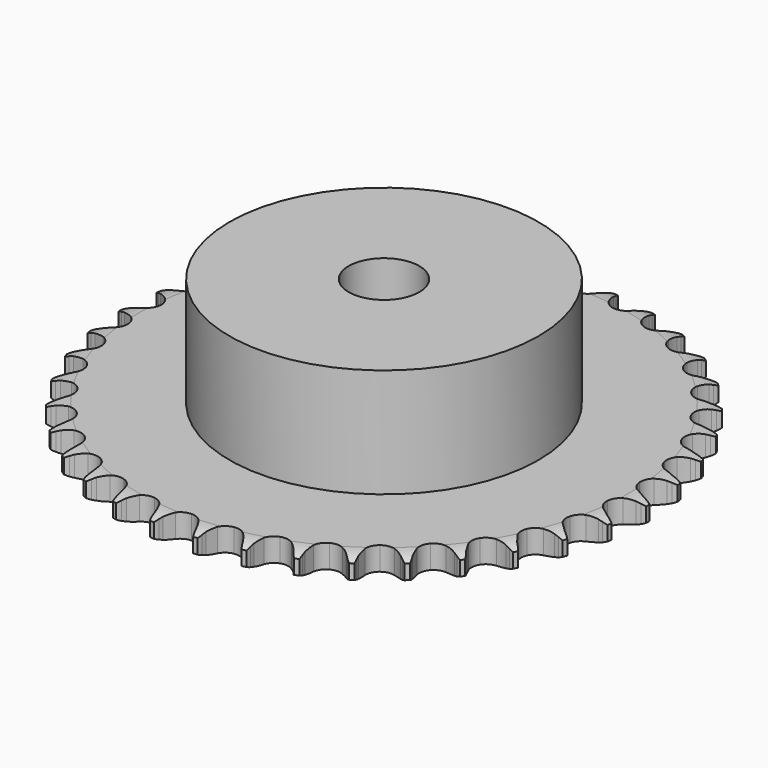
from build123d import *

# Parameters (mm, degrees)
PAD_DEPTH         = 5.3
SKETCH001_R       = 35
PAD001_DEPTH      = 30
SKETCH002_R       = 8
POCKET_DEPTH      = 0.001
POCKET_DEPTH_BACK = 30.001


with BuildPart() as part:
    # Sprocket → Pad (new body)
    with BuildSketch(Plane.XY):
        with BuildLine():
            ThreePointArc((-4.99856, 60.323644), (-4.441675, 59.555748), (-4.035521, 58.69853))
            Line((-4.035521, 58.69853), (-3.725843, 57.850122))
            ThreePointArc((-3.725843, 57.850122), (-3.235353, 56.757927), (-2.592985, 55.747564))
            ThreePointArc((-2.592985, 55.747564), (-1.45137, 54.787399), (0, 54.442831))
            ThreePointArc((0, 54.442831), (1.45137, 54.787399), (2.592985, 55.747564))
            ThreePointArc((2.592985, 55.747564), (3.235353, 56.757927), (3.725843, 57.850122))
            Line((3.725843, 57.850122), (4.035521, 58.69853))
            ThreePointArc((4.035521, 58.69853), (4.441675, 59.555748), (4.99856, 60.323644))
            ThreePointArc((4.99856, 60.323644), (5.421458, 59.474561), (5.680978, 58.562184))
            Line((5.680978, 58.562184), (5.846789, 57.674375))
            ThreePointArc((5.846789, 57.674375), (6.150821, 56.516344), (6.618128, 55.414031))
            ThreePointArc((6.618128, 55.414031), (7.586134, 54.279058), (8.960995, 53.700302))
            ThreePointArc((8.960995, 53.700302), (10.449284, 53.801282), (11.733367, 54.560448))
            Line((11.733367, 54.560448), (13.196845, 56.447868))
            ThreePointArc((13.196845, 56.447868), (13.408708, 56.846853), (13.641943, 57.233734))
            ThreePointArc((13.641943, 57.233734), (14.18365, 58.01241), (14.859331, 58.678172))
            ThreePointArc((14.859331, 58.678172), (15.136708, 57.771063), (15.242516, 56.828413))
            Line((15.242516, 56.828413), (15.259937, 55.925422))
            ThreePointArc((15.259937, 55.925422), (15.369216, 54.733143), (15.648715, 53.568948))
            ThreePointArc((15.648715, 53.568948), (16.416709, 52.290125), (17.677558, 51.492968))
            ThreePointArc((17.677558, 51.492968), (19.16217, 51.347607), (20.553694, 51.885066))
            Line((20.553694, 51.885066), (22.307871, 53.505863))
            ThreePointArc((22.307871, 53.505863), (22.582515, 53.864535), (22.876247, 54.20775))
            ThreePointArc((22.876247, 54.20775), (23.538732, 54.886644), (24.314779, 55.432112))
            ThreePointArc((24.314779, 55.432112), (24.439067, 54.491721), (24.388277, 53.544512))
            Line((24.388277, 53.544512), (24.256833, 52.650969))
            ThreePointArc((24.256833, 52.650969), (24.168379, 51.456965), (24.252445, 50.262643))
            ThreePointArc((24.252445, 50.262643), (24.799478, 48.874855), (25.911924, 47.881041))
            ThreePointArc((25.911924, 47.881041), (27.352361, 47.493304), (28.81337, 47.794394))
            Line((28.81337, 47.794394), (30.810396, 49.104358))
            ThreePointArc((30.810396, 49.104358), (31.14033, 49.412933), (31.486548, 49.70312))
            ThreePointArc((31.486548, 49.70312), (32.251739, 50.263714), (33.106983, 50.67401))
            ThreePointArc((33.106983, 50.67401), (33.074793, 49.725987), (32.86879, 48.800056))
            Line((32.86879, 48.800056), (32.592066, 47.940335))
            ThreePointArc((32.592066, 47.940335), (32.308292, 46.777174), (32.194633, 45.585305))
            ThreePointArc((32.194633, 45.585305), (32.505782, 44.126406), (33.439479, 42.963043))
            ThreePointArc((33.439479, 42.963043), (34.796452, 42.343506), (36.287092, 42.400016))
            Line((36.287092, 42.400016), (38.472494, 43.363414))
            ThreePointArc((38.472494, 43.363414), (38.848718, 43.613475), (39.237977, 43.842719))
            ThreePointArc((39.237977, 43.842719), (40.085003, 44.269721), (40.996115, 44.533652))
            ThreePointArc((40.996115, 44.533652), (40.808324, 43.603857), (40.452728, 42.724462))
            Line((40.452728, 42.724462), (40.038273, 41.922013))
            ThreePointArc((40.038273, 41.922013), (39.566919, 40.821424), (39.258635, 39.664518))
            ThreePointArc((39.258635, 39.664518), (39.325413, 38.174303), (40.054893, 36.873126))
            ThreePointArc((40.054893, 36.873126), (41.291385, 36.038688), (42.770996, 35.849077))
            Line((42.770996, 35.849077), (45.085163, 36.439629))
            ThreePointArc((45.085163, 36.439629), (45.497414, 36.624355), (45.919096, 36.786403))
            ThreePointArc((45.919096, 36.786403), (46.824852, 37.068165), (47.766979, 37.178532))
            ThreePointArc((47.766979, 37.178532), (47.428711, 36.292328), (46.933221, 35.483456))
            Line((46.933221, 35.483456), (46.39234, 34.760169))
            ThreePointArc((46.39234, 34.760169), (45.746263, 33.752173), (45.251763, 32.661787))
            ThreePointArc((45.251763, 32.661787), (45.07235, 31.180905), (45.577713, 29.777406))
            ThreePointArc((45.577713, 29.777406), (46.659998, 28.750829), (48.08822, 28.320267))
            Line((48.08822, 28.320267), (50.468026, 28.521866))
            ThreePointArc((50.468026, 28.521866), (50.90506, 28.636219), (51.347663, 28.72665))
            ThreePointArc((51.347663, 28.72665), (52.287442, 28.855486), (53.234885, 28.809279))
            ThreePointArc((53.234885, 28.809279), (52.755366, 27.990839), (52.133498, 27.274554))
            Line((52.133498, 27.274554), (51.480944, 26.650157))
            ThreePointArc((51.480944, 26.650157), (50.677769, 25.76225), (50.010542, 24.768127))
            ThreePointArc((50.010542, 24.768127), (49.58983, 23.336973), (49.857293, 21.869436))
            ThreePointArc((49.857293, 21.869436), (50.755847, 20.678722), (52.093722, 20.018955))
            Line((52.093722, 20.018955), (54.474253, 19.826101))
            ThreePointArc((54.474253, 19.826101), (54.924148, 19.86696), (55.375599, 19.883308))
            ThreePointArc((55.375599, 19.883308), (56.323766, 19.855705), (57.250682, 19.654184))
            ThreePointArc((57.250682, 19.654184), (56.642992, 18.925832), (55.911709, 18.321673))
            Line((55.911709, 18.321673), (55.165283, 17.813199))
            ThreePointArc((55.165283, 17.813199), (54.226917, 17.069599), (53.405163, 16.198858))
            ThreePointArc((53.405163, 16.198858), (52.754629, 14.85647), (52.776895, 13.364925))
            ThreePointArc((52.776895, 13.364925), (53.467209, 12.042553), (54.678243, 11.171578))
            Line((54.678243, 11.171578), (56.994564, 10.589532))
            ThreePointArc((56.994564, 10.589532), (57.445048, 10.555783), (57.893033, 10.497602))
            ThreePointArc((57.893033, 10.497602), (58.823725, 10.314311), (59.70483, 9.962974))
            ThreePointArc((59.70483, 9.962974), (58.985545, 9.344579), (58.164794, 8.869024))
            Line((58.164794, 8.869024), (57.344857, 8.490343))
            ThreePointArc((57.344857, 8.490343), (56.296896, 7.911335), (55.34303, 7.187726))
            ThreePointArc((55.34303, 7.187726), (54.480419, 5.97072), (54.256881, 4.495853))
            ThreePointArc((54.256881, 4.495853), (54.720125, 3.077895), (55.771284, 2.019469))
            Line((55.771284, 2.019469), (57.960212, 1.064108))
            ThreePointArc((57.960212, 1.064108), (58.398997, 0.956672), (58.831295, 0.825548))
            ThreePointArc((58.831295, 0.825548), (59.719126, 0.491571), (60.530385, 0))
            ThreePointArc((60.530385, 0), (59.719126, -0.491571), (58.831295, -0.825548))
            Line((58.831295, -0.825548), (57.960212, -1.064108))
            ThreePointArc((57.960212, -1.064108), (56.831243, -1.46273), (55.771284, -2.019469))
            ThreePointArc((55.771284, -2.019469), (54.720125, -3.077895), (54.256881, -4.495853))
            ThreePointArc((54.256881, -4.495853), (54.480419, -5.97072), (55.34303, -7.187726))
            Line((55.34303, -7.187726), (57.344857, -8.490343))
            ThreePointArc((57.344857, -8.490343), (57.759974, -8.668535), (58.164794, -8.869024))
            ThreePointArc((58.164794, -8.869024), (58.985545, -9.344579), (59.70483, -9.962974))
            ThreePointArc((59.70483, -9.962974), (58.823725, -10.314311), (57.893033, -10.497602))
            Line((57.893033, -10.497602), (56.994564, -10.589532))
            ThreePointArc((56.994564, -10.589532), (55.815381, -10.796895), (54.678243, -11.171578))
            ThreePointArc((54.678243, -11.171578), (53.467209, -12.042553), (52.776895, -13.364925))
            ThreePointArc((52.776895, -13.364925), (52.754629, -14.85647), (53.405163, -16.198858))
            Line((53.405163, -16.198858), (55.165283, -17.813199))
            ThreePointArc((55.165283, -17.813199), (55.54541, -18.057287), (55.911709, -18.321673))
            ThreePointArc((55.911709, -18.321673), (56.642992, -18.925832), (57.250682, -19.654184))
            ThreePointArc((57.250682, -19.654184), (56.323766, -19.855705), (55.375599, -19.883308))
            Line((55.375599, -19.883308), (54.474253, -19.826101))
            ThreePointArc((54.474253, -19.826101), (53.277022, -19.836549), (52.093722, -20.018955))
            ThreePointArc((52.093722, -20.018955), (50.755847, -20.678722), (49.857293, -21.869436))
            ThreePointArc((49.857293, -21.869436), (49.58983, -23.336973), (50.010542, -24.768127))
            Line((50.010542, -24.768127), (51.480944, -26.650157))
            ThreePointArc((51.480944, -26.650157), (51.815711, -26.953483), (52.133498, -27.274554))
            ThreePointArc((52.133498, -27.274554), (52.755366, -27.990839), (53.234885, -28.809279))
            ThreePointArc((53.234885, -28.809279), (52.287442, -28.855486), (51.347663, -28.72665))
            Line((51.347663, -28.72665), (50.468026, -28.521866))
            ThreePointArc((50.468026, -28.521866), (49.285404, -28.335114), (48.08822, -28.320267))
            ThreePointArc((48.08822, -28.320267), (46.659998, -28.750829), (45.577713, -29.777406))
            ThreePointArc((45.577713, -29.777406), (45.07235, -31.180905), (45.251763, -32.661787))
            Line((45.251763, -32.661787), (46.39234, -34.760169))
            ThreePointArc((46.39234, -34.760169), (46.672615, -35.114458), (46.933221, -35.483456))
            ThreePointArc((46.933221, -35.483456), (47.428711, -36.292328), (47.766979, -37.178532))
            ThreePointArc((47.766979, -37.178532), (46.824852, -37.068165), (45.919096, -36.786403))
            Line((45.919096, -36.786403), (45.085163, -36.439629))
            ThreePointArc((45.085163, -36.439629), (43.949409, -36.060771), (42.770996, -35.849077))
            ThreePointArc((42.770996, -35.849077), (41.291385, -36.038688), (40.054893, -36.873126))
            ThreePointArc((40.054893, -36.873126), (39.325413, -38.174303), (39.258635, -39.664518))
            Line((39.258635, -39.664518), (40.038273, -41.922013))
            ThreePointArc((40.038273, -41.922013), (40.256411, -42.317602), (40.452728, -42.724462))
            ThreePointArc((40.452728, -42.724462), (40.808324, -43.603857), (40.996115, -44.533652))
            ThreePointArc((40.996115, -44.533652), (40.085003, -44.269721), (39.237977, -43.842719))
            Line((39.237977, -43.842719), (38.472494, -43.363414))
            ThreePointArc((38.472494, -43.363414), (37.414588, -42.802784), (36.287092, -42.400016))
            ThreePointArc((36.287092, -42.400016), (34.796452, -42.343506), (33.439479, -42.963043))
            ThreePointArc((33.439479, -42.963043), (32.505782, -44.126406), (32.194633, -45.585305))
            Line((32.194633, -45.585305), (32.592066, -47.940335))
            ThreePointArc((32.592066, -47.940335), (32.742118, -48.366433), (32.86879, -48.800056))
            ThreePointArc((32.86879, -48.800056), (33.074793, -49.725987), (33.106983, -50.67401))
            ThreePointArc((33.106983, -50.67401), (32.251739, -50.263714), (31.486548, -49.70312))
            Line((31.486548, -49.70312), (30.810396, -49.104358))
            ThreePointArc((30.810396, -49.104358), (29.859195, -48.377249), (28.81337, -47.794394))
            ThreePointArc((28.81337, -47.794394), (27.352361, -47.493304), (25.911924, -47.881041))
            ThreePointArc((25.911924, -47.881041), (24.799478, -48.874855), (24.252445, -50.262643))
            Line((24.252445, -50.262643), (24.256833, -52.650969))
            ThreePointArc((24.256833, -52.650969), (24.334705, -53.095953), (24.388277, -53.544512))
            ThreePointArc((24.388277, -53.544512), (24.439067, -54.491721), (24.314779, -55.432112))
            ThreePointArc((24.314779, -55.432112), (23.538732, -54.886644), (22.876247, -54.20775))
            Line((22.876247, -54.20775), (22.307871, -53.505863))
            ThreePointArc((22.307871, -53.505863), (21.489321, -52.632108), (20.553694, -51.885066))
            ThreePointArc((20.553694, -51.885066), (19.16217, -51.347607), (17.677558, -51.492968))
            ThreePointArc((17.677558, -51.492968), (16.416709, -52.290125), (15.648715, -53.568948))
            Line((15.648715, -53.568948), (15.259937, -55.925422))
            ThreePointArc((15.259937, -55.925422), (15.263504, -56.377155), (15.242516, -56.828413))
            ThreePointArc((15.242516, -56.828413), (15.136708, -57.771063), (14.859331, -58.678172))
            ThreePointArc((14.859331, -58.678172), (14.18365, -58.01241), (13.641943, -57.233734))
            Line((13.641943, -57.233734), (13.196845, -56.447868))
            ThreePointArc((13.196845, -56.447868), (12.533275, -55.451301), (11.733367, -54.560448))
            ThreePointArc((11.733367, -54.560448), (10.449284, -53.801282), (8.960995, -53.700302))
            ThreePointArc((8.960995, -53.700302), (7.586134, -54.279058), (6.618128, -55.414031))
            Line((6.618128, -55.414031), (5.846789, -57.674375))
            ThreePointArc((5.846789, -57.674375), (5.775956, -58.120534), (5.680978, -58.562184))
            ThreePointArc((5.680978, -58.562184), (5.421458, -59.474561), (4.99856, -60.323644))
            ThreePointArc((4.99856, -60.323644), (4.441675, -59.555748), (4.035521, -58.69853))
            Line((4.035521, -58.69853), (3.725843, -57.850122))
            ThreePointArc((3.725843, -57.850122), (3.235353, -56.757927), (2.592985, -55.747564))
            ThreePointArc((2.592985, -55.747564), (1.45137, -54.787399), (0, -54.442831))
            ThreePointArc((0, -54.442831), (-1.45137, -54.787399), (-2.592985, -55.747564))
            Line((-2.592985, -55.747564), (-3.725843, -57.850122))
            ThreePointArc((-3.725843, -57.850122), (-3.869146, -58.278537), (-4.035521, -58.69853))
            ThreePointArc((-4.035521, -58.69853), (-4.441675, -59.555748), (-4.99856, -60.323644))
            ThreePointArc((-4.99856, -60.323644), (-5.421458, -59.474561), (-5.680978, -58.562184))
            Line((-5.680978, -58.562184), (-5.846789, -57.674375))
            ThreePointArc((-5.846789, -57.674375), (-6.150821, -56.516344), (-6.618128, -55.414031))
            ThreePointArc((-6.618128, -55.414031), (-7.586134, -54.279058), (-8.960995, -53.700302))
            ThreePointArc((-8.960995, -53.700302), (-10.449284, -53.801282), (-11.733367, -54.560448))
            Line((-11.733367, -54.560448), (-13.196845, -56.447868))
            ThreePointArc((-13.196845, -56.447868), (-13.408708, -56.846853), (-13.641943, -57.233734))
            ThreePointArc((-13.641943, -57.233734), (-14.18365, -58.01241), (-14.859331, -58.678172))
            ThreePointArc((-14.859331, -58.678172), (-15.136708, -57.771063), (-15.242516, -56.828413))
            Line((-15.242516, -56.828413), (-15.259937, -55.925422))
            ThreePointArc((-15.259937, -55.925422), (-15.369216, -54.733143), (-15.648715, -53.568948))
            ThreePointArc((-15.648715, -53.568948), (-16.416709, -52.290125), (-17.677558, -51.492968))
            ThreePointArc((-17.677558, -51.492968), (-19.16217, -51.347607), (-20.553694, -51.885066))
            Line((-20.553694, -51.885066), (-22.307871, -53.505863))
            ThreePointArc((-22.307871, -53.505863), (-22.582515, -53.864535), (-22.876247, -54.20775))
            ThreePointArc((-22.876247, -54.20775), (-23.538732, -54.886644), (-24.314779, -55.432112))
            ThreePointArc((-24.314779, -55.432112), (-24.439067, -54.491721), (-24.388277, -53.544512))
            Line((-24.388277, -53.544512), (-24.256833, -52.650969))
            ThreePointArc((-24.256833, -52.650969), (-24.168379, -51.456965), (-24.252445, -50.262643))
            ThreePointArc((-24.252445, -50.262643), (-24.799478, -48.874855), (-25.911924, -47.881041))
            ThreePointArc((-25.911924, -47.881041), (-27.352361, -47.493304), (-28.81337, -47.794394))
            Line((-28.81337, -47.794394), (-30.810396, -49.104358))
            ThreePointArc((-30.810396, -49.104358), (-31.14033, -49.412933), (-31.486548, -49.70312))
            ThreePointArc((-31.486548, -49.70312), (-32.251739, -50.263714), (-33.106983, -50.67401))
            ThreePointArc((-33.106983, -50.67401), (-33.074793, -49.725987), (-32.86879, -48.800056))
            Line((-32.86879, -48.800056), (-32.592066, -47.940335))
            ThreePointArc((-32.592066, -47.940335), (-32.308292, -46.777174), (-32.194633, -45.585305))
            ThreePointArc((-32.194633, -45.585305), (-32.505782, -44.126406), (-33.439479, -42.963043))
            ThreePointArc((-33.439479, -42.963043), (-34.796452, -42.343506), (-36.287092, -42.400016))
            Line((-36.287092, -42.400016), (-38.472494, -43.363414))
            ThreePointArc((-38.472494, -43.363414), (-38.848718, -43.613475), (-39.237977, -43.842719))
            ThreePointArc((-39.237977, -43.842719), (-40.085003, -44.269721), (-40.996115, -44.533652))
            ThreePointArc((-40.996115, -44.533652), (-40.808324, -43.603857), (-40.452728, -42.724462))
            Line((-40.452728, -42.724462), (-40.038273, -41.922013))
            ThreePointArc((-40.038273, -41.922013), (-39.566919, -40.821424), (-39.258635, -39.664518))
            ThreePointArc((-39.258635, -39.664518), (-39.325413, -38.174303), (-40.054893, -36.873126))
            ThreePointArc((-40.054893, -36.873126), (-41.291385, -36.038688), (-42.770996, -35.849077))
            Line((-42.770996, -35.849077), (-45.085163, -36.439629))
            ThreePointArc((-45.085163, -36.439629), (-45.497414, -36.624355), (-45.919096, -36.786403))
            ThreePointArc((-45.919096, -36.786403), (-46.824852, -37.068165), (-47.766979, -37.178532))
            ThreePointArc((-47.766979, -37.178532), (-47.428711, -36.292328), (-46.933221, -35.483456))
            Line((-46.933221, -35.483456), (-46.39234, -34.760169))
            ThreePointArc((-46.39234, -34.760169), (-45.746263, -33.752173), (-45.251763, -32.661787))
            ThreePointArc((-45.251763, -32.661787), (-45.07235, -31.180905), (-45.577713, -29.777406))
            ThreePointArc((-45.577713, -29.777406), (-46.659998, -28.750829), (-48.08822, -28.320267))
            Line((-48.08822, -28.320267), (-50.468026, -28.521866))
            ThreePointArc((-50.468026, -28.521866), (-50.90506, -28.636219), (-51.347663, -28.72665))
            ThreePointArc((-51.347663, -28.72665), (-52.287442, -28.855486), (-53.234885, -28.809279))
            ThreePointArc((-53.234885, -28.809279), (-52.755366, -27.990839), (-52.133498, -27.274554))
            Line((-52.133498, -27.274554), (-51.480944, -26.650157))
            ThreePointArc((-51.480944, -26.650157), (-50.677769, -25.76225), (-50.010542, -24.768127))
            ThreePointArc((-50.010542, -24.768127), (-49.58983, -23.336973), (-49.857293, -21.869436))
            ThreePointArc((-49.857293, -21.869436), (-50.755847, -20.678722), (-52.093722, -20.018955))
            Line((-52.093722, -20.018955), (-54.474253, -19.826101))
            ThreePointArc((-54.474253, -19.826101), (-54.924148, -19.86696), (-55.375599, -19.883308))
            ThreePointArc((-55.375599, -19.883308), (-56.323766, -19.855705), (-57.250682, -19.654184))
            ThreePointArc((-57.250682, -19.654184), (-56.642992, -18.925832), (-55.911709, -18.321673))
            Line((-55.911709, -18.321673), (-55.165283, -17.813199))
            ThreePointArc((-55.165283, -17.813199), (-54.226917, -17.069599), (-53.405163, -16.198858))
            ThreePointArc((-53.405163, -16.198858), (-52.754629, -14.85647), (-52.776895, -13.364925))
            ThreePointArc((-52.776895, -13.364925), (-53.467209, -12.042553), (-54.678243, -11.171578))
            Line((-54.678243, -11.171578), (-56.994564, -10.589532))
            ThreePointArc((-56.994564, -10.589532), (-57.445048, -10.555783), (-57.893033, -10.497602))
            ThreePointArc((-57.893033, -10.497602), (-58.823725, -10.314311), (-59.70483, -9.962974))
            ThreePointArc((-59.70483, -9.962974), (-58.985545, -9.344579), (-58.164794, -8.869024))
            Line((-58.164794, -8.869024), (-57.344857, -8.490343))
            ThreePointArc((-57.344857, -8.490343), (-56.296896, -7.911335), (-55.34303, -7.187726))
            ThreePointArc((-55.34303, -7.187726), (-54.480419, -5.97072), (-54.256881, -4.495853))
            ThreePointArc((-54.256881, -4.495853), (-54.720125, -3.077895), (-55.771284, -2.019469))
            Line((-55.771284, -2.019469), (-57.960212, -1.064108))
            ThreePointArc((-57.960212, -1.064108), (-58.398997, -0.956672), (-58.831295, -0.825548))
            ThreePointArc((-58.831295, -0.825548), (-59.719126, -0.491571), (-60.530385, 0))
            ThreePointArc((-60.530385, 0), (-59.719126, 0.491571), (-58.831295, 0.825548))
            Line((-58.831295, 0.825548), (-57.960212, 1.064108))
            ThreePointArc((-57.960212, 1.064108), (-56.831243, 1.46273), (-55.771284, 2.019469))
            ThreePointArc((-55.771284, 2.019469), (-54.720125, 3.077895), (-54.256881, 4.495853))
            ThreePointArc((-54.256881, 4.495853), (-54.480419, 5.97072), (-55.34303, 7.187726))
            Line((-55.34303, 7.187726), (-57.344857, 8.490343))
            ThreePointArc((-57.344857, 8.490343), (-57.759974, 8.668535), (-58.164794, 8.869024))
            ThreePointArc((-58.164794, 8.869024), (-58.985545, 9.344579), (-59.70483, 9.962974))
            ThreePointArc((-59.70483, 9.962974), (-58.823725, 10.314311), (-57.893033, 10.497602))
            Line((-57.893033, 10.497602), (-56.994564, 10.589532))
            ThreePointArc((-56.994564, 10.589532), (-55.815381, 10.796895), (-54.678243, 11.171578))
            ThreePointArc((-54.678243, 11.171578), (-53.467209, 12.042553), (-52.776895, 13.364925))
            ThreePointArc((-52.776895, 13.364925), (-52.754629, 14.85647), (-53.405163, 16.198858))
            Line((-53.405163, 16.198858), (-55.165283, 17.813199))
            ThreePointArc((-55.165283, 17.813199), (-55.54541, 18.057287), (-55.911709, 18.321673))
            ThreePointArc((-55.911709, 18.321673), (-56.642992, 18.925832), (-57.250682, 19.654184))
            ThreePointArc((-57.250682, 19.654184), (-56.323766, 19.855705), (-55.375599, 19.883308))
            Line((-55.375599, 19.883308), (-54.474253, 19.826101))
            ThreePointArc((-54.474253, 19.826101), (-53.277022, 19.836549), (-52.093722, 20.018955))
            ThreePointArc((-52.093722, 20.018955), (-50.755847, 20.678722), (-49.857293, 21.869436))
            ThreePointArc((-49.857293, 21.869436), (-49.58983, 23.336973), (-50.010542, 24.768127))
            Line((-50.010542, 24.768127), (-51.480944, 26.650157))
            ThreePointArc((-51.480944, 26.650157), (-51.815711, 26.953483), (-52.133498, 27.274554))
            ThreePointArc((-52.133498, 27.274554), (-52.755366, 27.990839), (-53.234885, 28.809279))
            ThreePointArc((-53.234885, 28.809279), (-52.287442, 28.855486), (-51.347663, 28.72665))
            Line((-51.347663, 28.72665), (-50.468026, 28.521866))
            ThreePointArc((-50.468026, 28.521866), (-49.285404, 28.335114), (-48.08822, 28.320267))
            ThreePointArc((-48.08822, 28.320267), (-46.659998, 28.750829), (-45.577713, 29.777406))
            ThreePointArc((-45.577713, 29.777406), (-45.07235, 31.180905), (-45.251763, 32.661787))
            Line((-45.251763, 32.661787), (-46.39234, 34.760169))
            ThreePointArc((-46.39234, 34.760169), (-46.672615, 35.114458), (-46.933221, 35.483456))
            ThreePointArc((-46.933221, 35.483456), (-47.428711, 36.292328), (-47.766979, 37.178532))
            ThreePointArc((-47.766979, 37.178532), (-46.824852, 37.068165), (-45.919096, 36.786403))
            Line((-45.919096, 36.786403), (-45.085163, 36.439629))
            ThreePointArc((-45.085163, 36.439629), (-43.949409, 36.060771), (-42.770996, 35.849077))
            ThreePointArc((-42.770996, 35.849077), (-41.291385, 36.038688), (-40.054893, 36.873126))
            ThreePointArc((-40.054893, 36.873126), (-39.325413, 38.174303), (-39.258635, 39.664518))
            Line((-39.258635, 39.664518), (-40.038273, 41.922013))
            ThreePointArc((-40.038273, 41.922013), (-40.256411, 42.317602), (-40.452728, 42.724462))
            ThreePointArc((-40.452728, 42.724462), (-40.808324, 43.603857), (-40.996115, 44.533652))
            ThreePointArc((-40.996115, 44.533652), (-40.085003, 44.269721), (-39.237977, 43.842719))
            Line((-39.237977, 43.842719), (-38.472494, 43.363414))
            ThreePointArc((-38.472494, 43.363414), (-37.414588, 42.802784), (-36.287092, 42.400016))
            ThreePointArc((-36.287092, 42.400016), (-34.796452, 42.343506), (-33.439479, 42.963043))
            ThreePointArc((-33.439479, 42.963043), (-32.505782, 44.126406), (-32.194633, 45.585305))
            Line((-32.194633, 45.585305), (-32.592066, 47.940335))
            ThreePointArc((-32.592066, 47.940335), (-32.742118, 48.366433), (-32.86879, 48.800056))
            ThreePointArc((-32.86879, 48.800056), (-33.074793, 49.725987), (-33.106983, 50.67401))
            ThreePointArc((-33.106983, 50.67401), (-32.251739, 50.263714), (-31.486548, 49.70312))
            Line((-31.486548, 49.70312), (-30.810396, 49.104358))
            ThreePointArc((-30.810396, 49.104358), (-29.859195, 48.377249), (-28.81337, 47.794394))
            ThreePointArc((-28.81337, 47.794394), (-27.352361, 47.493304), (-25.911924, 47.881041))
            ThreePointArc((-25.911924, 47.881041), (-24.799478, 48.874855), (-24.252445, 50.262643))
            Line((-24.252445, 50.262643), (-24.256833, 52.650969))
            ThreePointArc((-24.256833, 52.650969), (-24.334705, 53.095953), (-24.388277, 53.544512))
            ThreePointArc((-24.388277, 53.544512), (-24.439067, 54.491721), (-24.314779, 55.432112))
            ThreePointArc((-24.314779, 55.432112), (-23.538732, 54.886644), (-22.876247, 54.20775))
            Line((-22.876247, 54.20775), (-22.307871, 53.505863))
            ThreePointArc((-22.307871, 53.505863), (-21.489321, 52.632108), (-20.553694, 51.885066))
            ThreePointArc((-20.553694, 51.885066), (-19.16217, 51.347607), (-17.677558, 51.492968))
            ThreePointArc((-17.677558, 51.492968), (-16.416709, 52.290125), (-15.648715, 53.568948))
            Line((-15.648715, 53.568948), (-15.259937, 55.925422))
            ThreePointArc((-15.259937, 55.925422), (-15.263504, 56.377155), (-15.242516, 56.828413))
            ThreePointArc((-15.242516, 56.828413), (-15.136708, 57.771063), (-14.859331, 58.678172))
            ThreePointArc((-14.859331, 58.678172), (-14.18365, 58.01241), (-13.641943, 57.233734))
            Line((-13.641943, 57.233734), (-13.196845, 56.447868))
            ThreePointArc((-13.196845, 56.447868), (-12.533275, 55.451301), (-11.733367, 54.560448))
            ThreePointArc((-11.733367, 54.560448), (-10.449284, 53.801282), (-8.960995, 53.700302))
            ThreePointArc((-8.960995, 53.700302), (-7.586134, 54.279058), (-6.618128, 55.414031))
            Line((-6.618128, 55.414031), (-5.846789, 57.674375))
            ThreePointArc((-5.846789, 57.674375), (-5.775956, 58.120534), (-5.680978, 58.562184))
            ThreePointArc((-5.680978, 58.562184), (-5.421458, 59.474561), (-4.99856, 60.323644))
        make_face()
    extrude(amount=PAD_DEPTH)

    # Sketch → Groove (revolve, cut)
    with BuildSketch(Plane.XZ):
        with BuildLine():
            Line((55.391101, 0), (59.75, 0))
            Line((64.108899, 0), (59.75, 0))
            Line((64.108899, 5.3), (64.108899, 0))
            Line((59.75, 5.3), (64.108899, 5.3))
            Line((55.391101, 5.3), (59.75, 5.3))
            ThreePointArc((59.75, 4.3), (57.627169, 5.046794), (55.391101, 5.3))
            Line((59.75, 1), (59.75, 4.3))
            ThreePointArc((55.391101, 0), (57.627169, 0.253206), (59.75, 1))
        make_face()
    revolve(axis=Axis((0, 0, 0), (0, 0, 1)), mode=Mode.SUBTRACT)

    # Sketch001 → Pad001 (join)
    with BuildSketch(Plane.XY):
        Circle(SKETCH001_R)
    extrude(amount=PAD001_DEPTH)

    # Sketch002 → Pocket (cut, two sides)
    with BuildSketch(Plane.XY) as pocket_sk:
        Circle(SKETCH002_R)
    extrude(amount=-POCKET_DEPTH, mode=Mode.SUBTRACT)
    extrude(pocket_sk.sketch, amount=POCKET_DEPTH_BACK, mode=Mode.SUBTRACT)


solid = part.part
